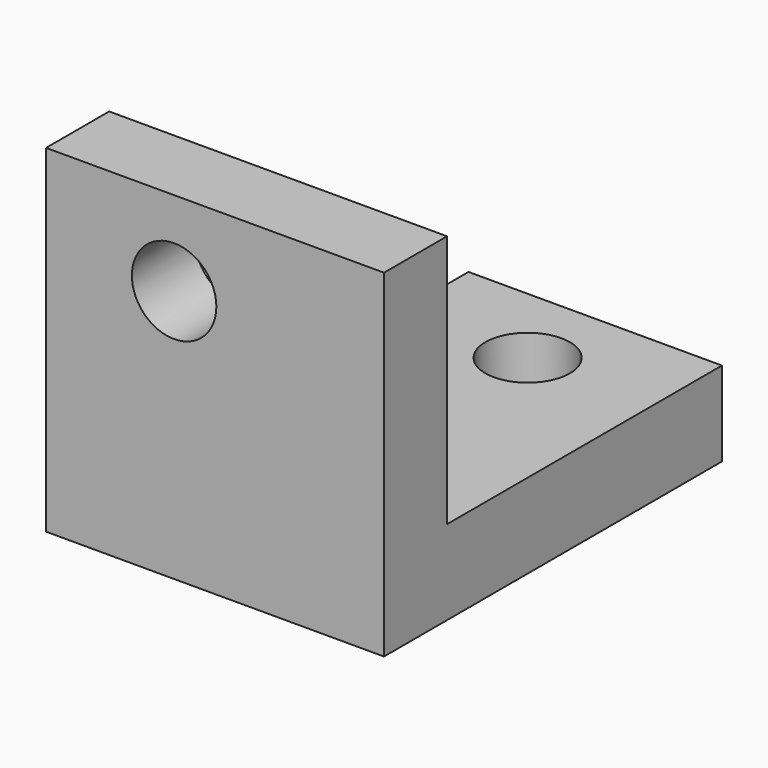
from build123d import *

# Parameters (mm, degrees)
F1_DEPTH = 101.6
F2_DEPTH = 25.4
F3_R     = 12.7
F4_DEPTH = 127.001
F5_R     = 12.7
F6_DEPTH = 25.401


with BuildPart() as f1:
    # F0 (on Top) → F1 (new body)
    with BuildSketch(Plane.XY):
        Polygon((63.1043637723, -63.0199108629), (63.1043637723, -39.3234714866), (-38.4956362277, -39.3234714866), (-38.4956362277, -63.0199108629), (38.0817614496, -63.0199108629), align=None)
    extrude(amount=F1_DEPTH)

    # F0 (on Top) → F2 (join)
    with BuildSketch(Plane.XY):
        Polygon((63.1043637723, 63.9800891371), (-13.0956362277, 63.9800891371), (-13.0956362277, 13.1800891371), (-38.4956362277, 13.1800891371), (-38.4956362277, -39.3234714866), (63.1043637723, -39.3234714866), align=None)
    extrude(amount=F2_DEPTH)

    # F3 (on face) → F4 (cut, through all)
    with BuildSketch(Plane.XZ.offset(63.0199108629)):
        with Locations((0, 76.2)):
            Circle(F3_R)
    extrude(amount=-F4_DEPTH, mode=Mode.SUBTRACT)

    # F5 (on face) → F6 (cut, through all)
    with BuildSketch(Plane.XY.offset(25.4)):
        with Locations((25.0043637723, 38.5800891371)):
            Circle(F5_R)
    extrude(amount=-F6_DEPTH, mode=Mode.SUBTRACT)


solid = f1.part
